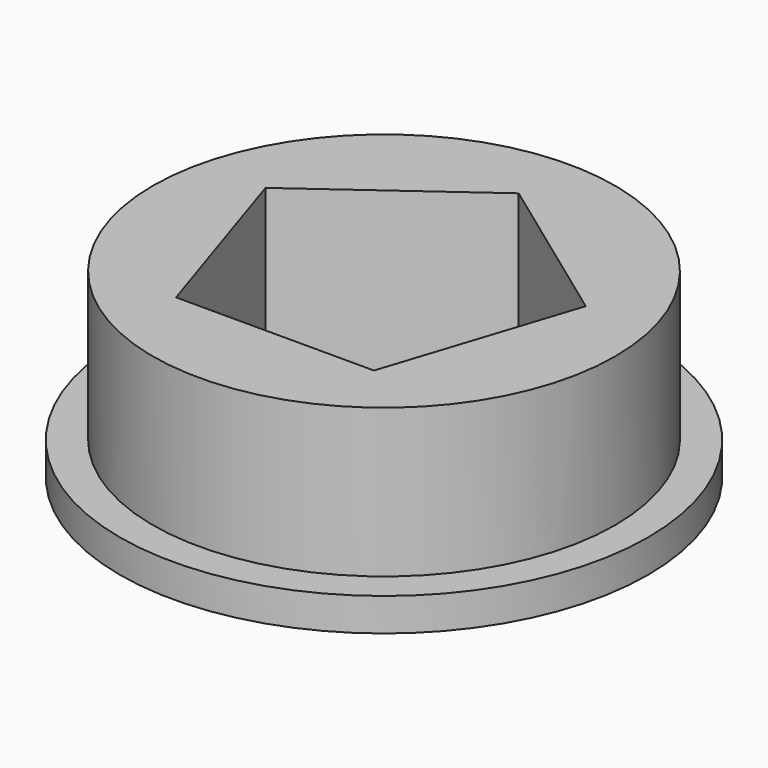
from build123d import *

# Parameters (mm, degrees)
F0_R     = 7
F1_DEPTH = 5.5
F0_R_2   = 8
F2_DEPTH = 1


with BuildPart() as f1:
    # F0 (on Top) → F1 (new body)
    with BuildSketch(Plane.XY):
        Circle(F0_R)
        Polygon((0, 5.1), (4.850388, 1.575987), (2.997705, -4.125987), (-2.997705, -4.125987), (-4.850388, 1.575987), align=None, mode=Mode.SUBTRACT)
    extrude(amount=F1_DEPTH)

    # F0 (on Top) → F2 (join)
    with BuildSketch(Plane.XY):
        Circle(F0_R_2)
        Circle(F0_R, mode=Mode.SUBTRACT)
    extrude(amount=F2_DEPTH)


solid = f1.part
